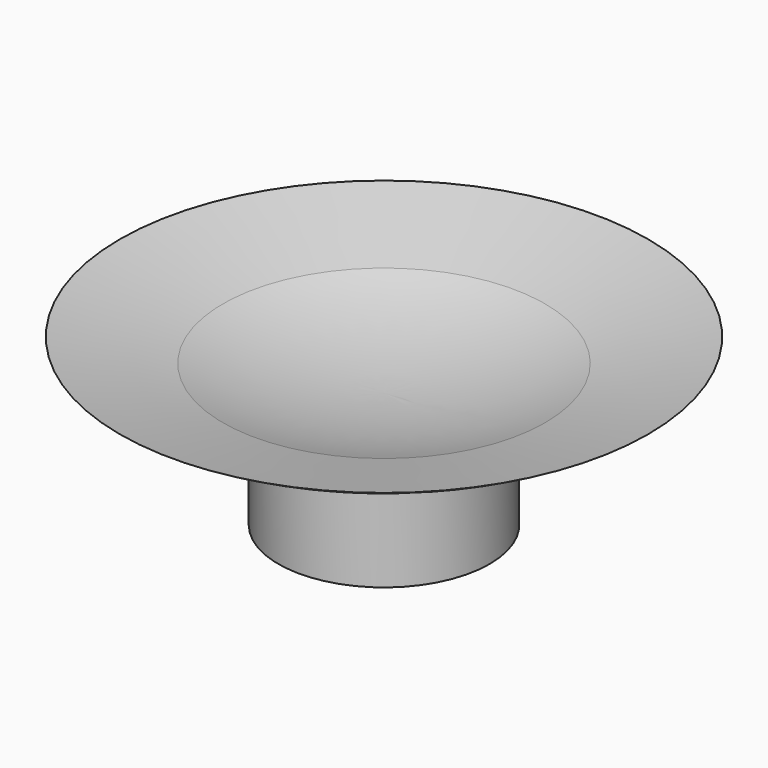
from build123d import *


with BuildPart() as f1:
    # F0 (on Front) → F1 (revolve)
    with BuildSketch(Plane.XZ):
        with BuildLine():
            Line((0, 2.791408), (0, 0))
            Line((0, 0), (2.54, 0))
            Line((2.54, 0), (2.54, 2.54))
            ThreePointArc((2.54, 2.54), (4.503326, 3.108643), (6.35, 3.984885))
            Line((6.35, 3.984885), (3.872949, 3.422909))
            ThreePointArc((3.872949, 3.422909), (1.962048, 2.950319), (0, 2.791408))
        make_face()
        with BuildLine():
            Line((0, 2.791408), (0, 0))
            Line((0, 0), (2.54, 0))
            Line((2.54, 0), (2.54, 2.54))
            ThreePointArc((2.54, 2.54), (4.503326, 3.108643), (6.35, 3.984885))
            Line((6.35, 3.984885), (3.872949, 3.422909))
            ThreePointArc((3.872949, 3.422909), (1.962048, 2.950319), (0, 2.791408))
        make_face()
    revolve(axis=Axis((0, 0, 1.395704), (0, 0, -1)))


solid = f1.part
